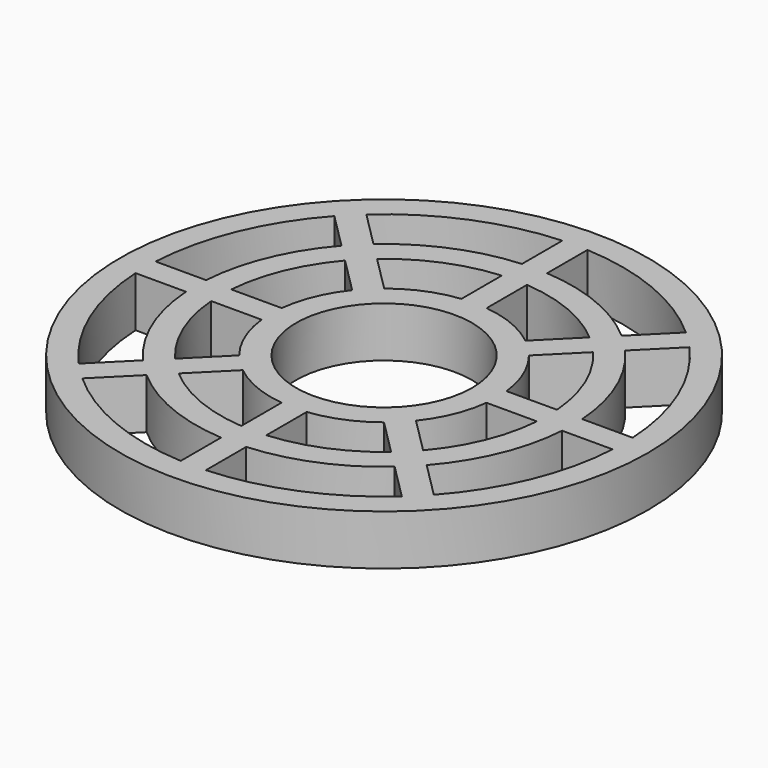
from build123d import *

# Parameters (mm, degrees)
F0_R     = 13.335
F0_R_2   = 4.445
F1_DEPTH = 2.54
F3_DEPTH = 2.541


with BuildPart() as f1:
    # F0 (on Top) → F1 (new body)
    with BuildSketch(Plane.XY):
        Circle(F0_R)
        Circle(F0_R_2, mode=Mode.SUBTRACT)
    extrude(amount=F1_DEPTH)

    # F2 (on face) → F3 (cut, through all)
    with BuildSketch(Plane.XY.offset(2.54)):
        with BuildLine():
            ThreePointArc((-0.635, -5.679613), (-2.187036, -5.279972), (-3.56708, -4.465105))
            Line((-3.56708, -4.465105), (-5.368491, -6.266516))
            ThreePointArc((-5.368491, -6.266516), (-3.157774, -7.623541), (-0.635, -8.227192))
            Line((-0.635, -8.227192), (-0.635, -5.679613))
        make_face()
        with BuildLine():
            Line((-6.26883, -7.166855), (-8.070406, -8.968432))
            ThreePointArc((-8.070406, -8.968432), (-4.617076, -11.146607), (-0.635, -12.048278))
            Line((-0.635, -12.048278), (-0.635, -9.500464))
            ThreePointArc((-0.635, -9.500464), (-3.643782, -8.796868), (-6.26883, -7.166855))
        make_face()
        with BuildLine():
            Line((0.635, -5.679613), (0.635, -8.227192))
            ThreePointArc((0.635, -8.227192), (3.157774, -7.623541), (5.368491, -6.266516))
            Line((5.368491, -6.266516), (3.56708, -4.465105))
            ThreePointArc((3.56708, -4.465105), (2.187036, -5.279972), (0.635, -5.679613))
        make_face()
        with BuildLine():
            Line((0.635, -9.500464), (0.635, -12.048278))
            ThreePointArc((0.635, -12.048278), (4.617076, -11.146607), (8.070406, -8.968432))
            Line((8.070406, -8.968432), (6.26883, -7.166855))
            ThreePointArc((6.26883, -7.166855), (3.643782, -8.796868), (0.635, -9.500464))
        make_face()
        with BuildLine():
            Line((4.465105, -3.56708), (6.266516, -5.368491))
            ThreePointArc((6.266516, -5.368491), (7.623541, -3.157774), (8.227192, -0.635))
            Line((8.227192, -0.635), (5.679613, -0.635))
            ThreePointArc((5.679613, -0.635), (5.279972, -2.187036), (4.465105, -3.56708))
        make_face()
        with BuildLine():
            Line((7.166855, -6.26883), (8.968432, -8.070406))
            ThreePointArc((8.968432, -8.070406), (11.146607, -4.617076), (12.048278, -0.635))
            Line((12.048278, -0.635), (9.500464, -0.635))
            ThreePointArc((9.500464, -0.635), (8.796868, -3.643782), (7.166855, -6.26883))
        make_face()
        with BuildLine():
            Line((5.679613, 0.635), (8.227192, 0.635))
            ThreePointArc((8.227192, 0.635), (7.623541, 3.157774), (6.266516, 5.368491))
            Line((6.266516, 5.368491), (4.465105, 3.56708))
            ThreePointArc((4.465105, 3.56708), (5.279972, 2.187036), (5.679613, 0.635))
        make_face()
        with BuildLine():
            Line((9.500464, 0.635), (12.048278, 0.635))
            ThreePointArc((12.048278, 0.635), (11.146607, 4.617076), (8.968432, 8.070406))
            Line((8.968432, 8.070406), (7.166855, 6.26883))
            ThreePointArc((7.166855, 6.26883), (8.796868, 3.643782), (9.500464, 0.635))
        make_face()
        with BuildLine():
            Line((3.56708, 4.465105), (5.368491, 6.266516))
            ThreePointArc((5.368491, 6.266516), (3.157774, 7.623541), (0.635, 8.227192))
            Line((0.635, 8.227192), (0.635, 5.679613))
            ThreePointArc((0.635, 5.679613), (2.187036, 5.279972), (3.56708, 4.465105))
        make_face()
        with BuildLine():
            Line((6.26883, 7.166855), (8.070406, 8.968432))
            ThreePointArc((8.070406, 8.968432), (4.617076, 11.146607), (0.635, 12.048278))
            Line((0.635, 12.048278), (0.635, 9.500464))
            ThreePointArc((0.635, 9.500464), (3.643782, 8.796868), (6.26883, 7.166855))
        make_face()
        with BuildLine():
            Line((-0.635, 5.679613), (-0.635, 8.227192))
            ThreePointArc((-0.635, 8.227192), (-3.157774, 7.623541), (-5.368491, 6.266516))
            Line((-5.368491, 6.266516), (-3.56708, 4.465105))
            ThreePointArc((-3.56708, 4.465105), (-2.187036, 5.279972), (-0.635, 5.679613))
        make_face()
        with BuildLine():
            Line((-0.635, 9.500464), (-0.635, 12.048278))
            ThreePointArc((-0.635, 12.048278), (-4.617076, 11.146607), (-8.070406, 8.968432))
            Line((-8.070406, 8.968432), (-6.26883, 7.166855))
            ThreePointArc((-6.26883, 7.166855), (-3.643782, 8.796868), (-0.635, 9.500464))
        make_face()
        with BuildLine():
            Line((-4.465105, 3.56708), (-6.266516, 5.368491))
            ThreePointArc((-6.266516, 5.368491), (-7.623541, 3.157774), (-8.227192, 0.635))
            Line((-8.227192, 0.635), (-5.679613, 0.635))
            ThreePointArc((-5.679613, 0.635), (-5.279972, 2.187036), (-4.465105, 3.56708))
        make_face()
        with BuildLine():
            Line((-7.166855, 6.26883), (-8.968432, 8.070406))
            ThreePointArc((-8.968432, 8.070406), (-11.146607, 4.617076), (-12.048278, 0.635))
            Line((-12.048278, 0.635), (-9.500464, 0.635))
            ThreePointArc((-9.500464, 0.635), (-8.796868, 3.643782), (-7.166855, 6.26883))
        make_face()
        with BuildLine():
            Line((-5.679613, -0.635), (-8.227192, -0.635))
            ThreePointArc((-8.227192, -0.635), (-7.623541, -3.157774), (-6.266516, -5.368491))
            Line((-6.266516, -5.368491), (-4.465105, -3.56708))
            ThreePointArc((-4.465105, -3.56708), (-5.279972, -2.187036), (-5.679613, -0.635))
        make_face()
        with BuildLine():
            Line((-9.500464, -0.635), (-12.048278, -0.635))
            ThreePointArc((-12.048278, -0.635), (-11.146607, -4.617076), (-8.968432, -8.070406))
            Line((-8.968432, -8.070406), (-7.166855, -6.26883))
            ThreePointArc((-7.166855, -6.26883), (-8.796868, -3.643782), (-9.500464, -0.635))
        make_face()
    extrude(amount=-F3_DEPTH, mode=Mode.SUBTRACT)


solid = f1.part
